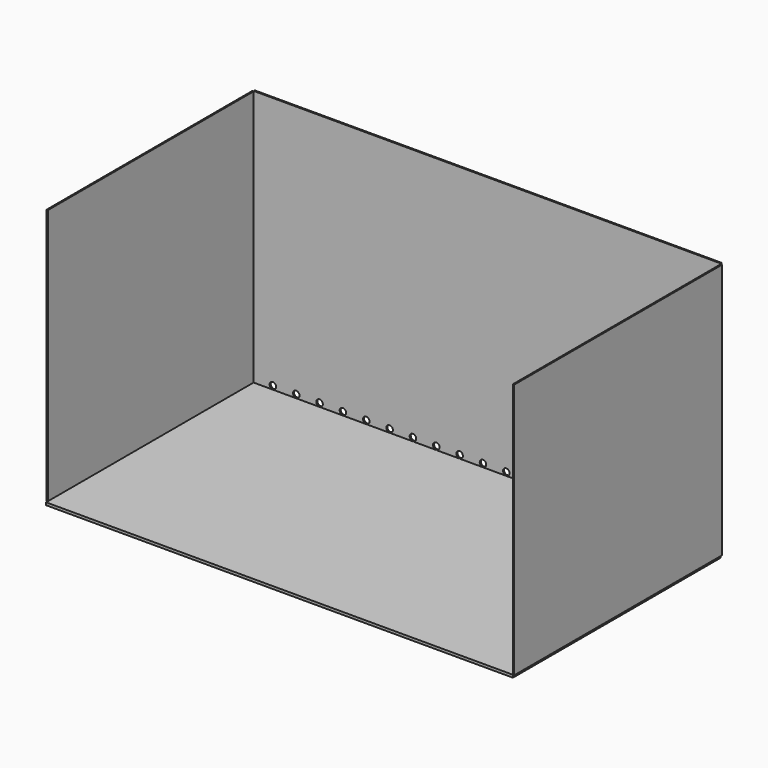
from build123d import *

# Parameters (mm, degrees)
F0_W     = 914.4
F0_H     = 508
F1_DEPTH = 5.08
F2_W     = 914.4
F2_H     = 502.92
F3_DEPTH = 2.54
F4_W     = 503.456629
F4_H     = 502.001568
F5_DEPTH = 2.54
F7_DEPTH = 2.54
F9_D     = 12.7
F9_DEPTH = 7.366


with BuildPart() as f1:
    # F0 (on Top) → F1 (new body)
    with BuildSketch(Plane.XY):
        Rectangle(F0_W, F0_H)
    extrude(amount=F1_DEPTH)



with BuildPart() as f3:
    # F2 (on face) → F3 (new body)
    with BuildSketch(Plane(origin=(0, 254, 0), x_dir=(-1, 0, 0), z_dir=(0, 1, 0))):
        with Locations((0, 256.54)):
            Rectangle(F2_W, F2_H)
    extrude(amount=F3_DEPTH)


with BuildPart() as f5:
    # F4 (on face) → F5 (new body)
    with BuildSketch(Plane(origin=(-457.2, 0, 0), x_dir=(0, -1, 0), z_dir=(-1, 0, 0))):
        with Locations((-2.271686, 256.080784)):
            Rectangle(F4_W, F4_H)
    extrude(amount=F5_DEPTH)


with BuildPart() as f1_1:
    add(f1.part)

    add(f3.part)  # F7 merges F3
    # F6 (on face) → F7 (join)
    with BuildSketch(Plane.YZ.offset(457.2)):
        Polygon((-254, 506.131947), (-254, 5.08), (254, 5.08), (254.540116, 5.08), (254.540116, 506.131947), align=None)
    extrude(amount=F7_DEPTH)

    # F9
    with Locations(Plane(origin=(0, 256.54, 0), x_dir=(-1, 0, 0), z_dir=(0, 1, 0))):
        with Locations((-403.620403, 11.856291), (-449.340403, 11.856291), (-357.900403, 11.856291), (-312.180403, 11.856291), (-266.460403, 11.856291), (-220.740403, 11.856291), (-175.020403, 11.856291), (-129.300403, 11.856291), (-83.580403, 11.856291), (-37.860403, 11.856291), (7.859597, 11.856291), (53.579597, 11.856291), (99.299597, 11.856291), (145.019597, 11.856291), (190.739597, 11.856291), (236.459597, 11.856291), (282.179597, 11.856291), (327.899597, 11.856291), (373.619597, 11.856291), (419.339597, 11.856291)):
            Hole(F9_D / 2, depth=F9_DEPTH)


solid = Compound([f5.part, f1_1.part])
